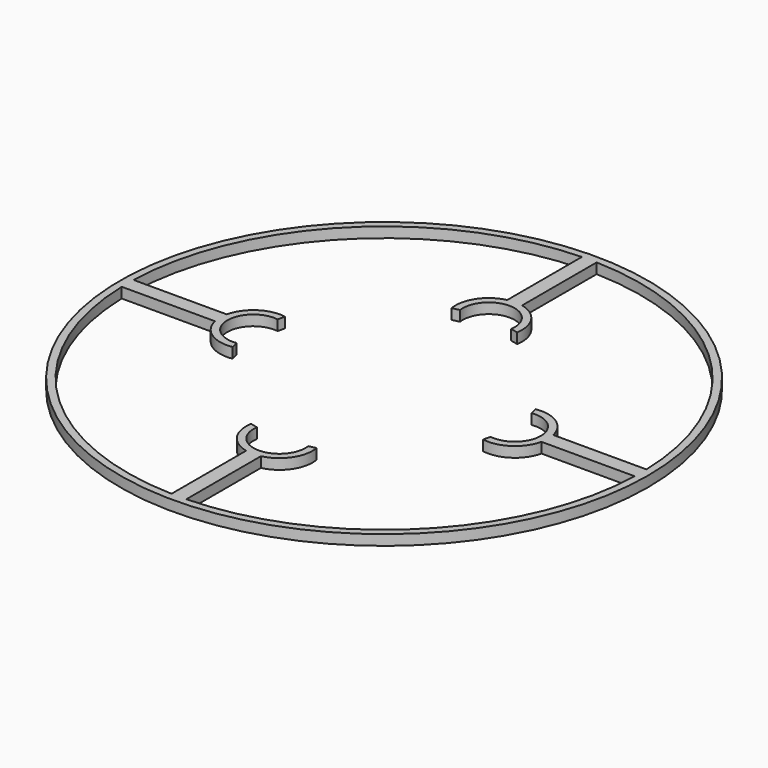
from build123d import *

# Parameters (mm, degrees)
F0_R     = 45.31064
F0_R_2   = 4.445
F1_DEPTH = 1.778
F2_R     = 22.225
F3_DEPTH = 12.7


with BuildPart() as f1:
    # F0 (on Top) → F1 (new body)
    with BuildSketch(Plane.XY):
        Circle(F0_R)
        with Locations((0, -22.45064)):
            Circle(F0_R_2, mode=Mode.SUBTRACT)
        with Locations((-22.45064, 0)):
            Circle(F0_R_2, mode=Mode.SUBTRACT)
        with BuildLine():
            Line((-1.27, 44.022325), (-1.27, 28.022743))
            ThreePointArc((-1.27, 28.022743), (0, 16.73564), (1.27, 28.022743))
            Line((1.27, 28.022743), (1.27, 44.022325))
            ThreePointArc((1.27, 44.022325), (31.141435, 31.141435), (44.022325, 1.27))
            Line((44.022325, 1.27), (28.022743, 1.27))
            ThreePointArc((28.022743, 1.27), (16.73564, 0), (28.022743, -1.27))
            Line((28.022743, -1.27), (44.022325, -1.27))
            ThreePointArc((44.022325, -1.27), (31.141435, -31.141435), (1.27, -44.022325))
            Line((1.27, -44.022325), (1.27, -28.022743))
            ThreePointArc((1.27, -28.022743), (0, -16.73564), (-1.27, -28.022743))
            Line((-1.27, -28.022743), (-1.27, -44.022325))
            ThreePointArc((-1.27, -44.022325), (-31.141435, -31.141435), (-44.022325, -1.27))
            Line((-44.022325, -1.27), (-28.022743, -1.27))
            ThreePointArc((-28.022743, -1.27), (-16.73564, 0), (-28.022743, 1.27))
            Line((-28.022743, 1.27), (-44.022325, 1.27))
            ThreePointArc((-44.022325, 1.27), (-31.141435, 31.141435), (-1.27, 44.022325))
        make_face(mode=Mode.SUBTRACT)
        with Locations((22.45064, 0)):
            Circle(F0_R_2, mode=Mode.SUBTRACT)
        with Locations((0, 22.45064)):
            Circle(F0_R_2, mode=Mode.SUBTRACT)
    extrude(amount=F1_DEPTH)

    # F2 (on Top) → F3 (cut)
    with BuildSketch(Plane.XY):
        Circle(F2_R)
    extrude(amount=F3_DEPTH, mode=Mode.SUBTRACT)


solid = f1.part
